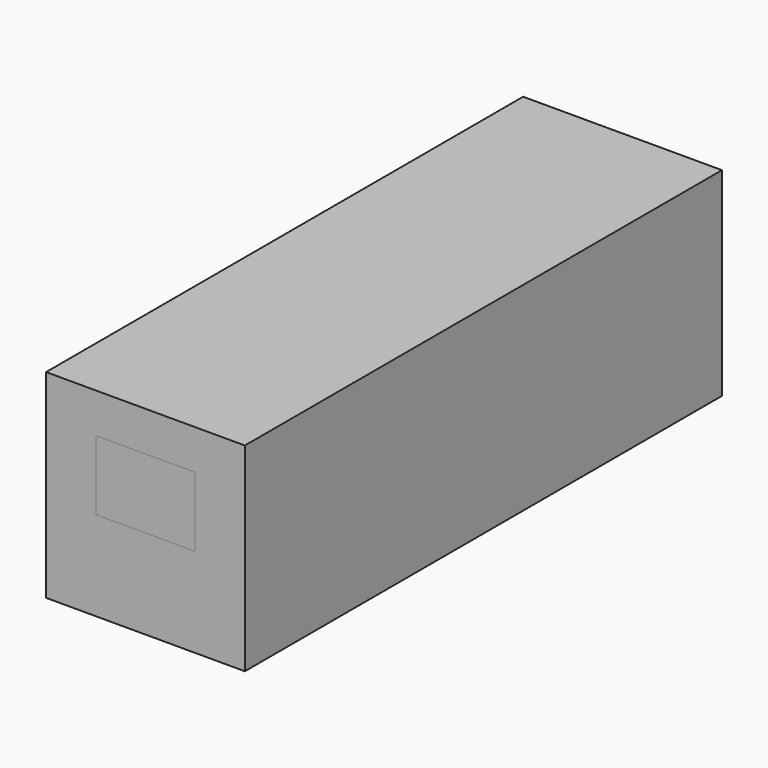
from build123d import *

# Parameters (mm, degrees)
F0_W     = 300
F0_H     = 100
F1_DEPTH = 50
F3_DEPTH = 25


with BuildPart() as f1:
    # F0 (on Right) → F1 (new body, symmetric)
    with BuildSketch(Plane.YZ):
        Rectangle(F0_W, F0_H)
    extrude(amount=F1_DEPTH, both=True)


with BuildPart() as f3:
    # F2 (on Right) → F3 (new body, symmetric)
    with BuildSketch(Plane.YZ):
        Polygon((150, 30), (-150, 30), (-150, -5), (-70, -5), (-70, -25), (150, -25), align=None)
    extrude(amount=F3_DEPTH, both=True)


with BuildPart() as f1_1:
    add(f1.part)

    # F4: cut F3
    add(f3.part, mode=Mode.SUBTRACT)


solid = Compound([f3.part, f1_1.part])
